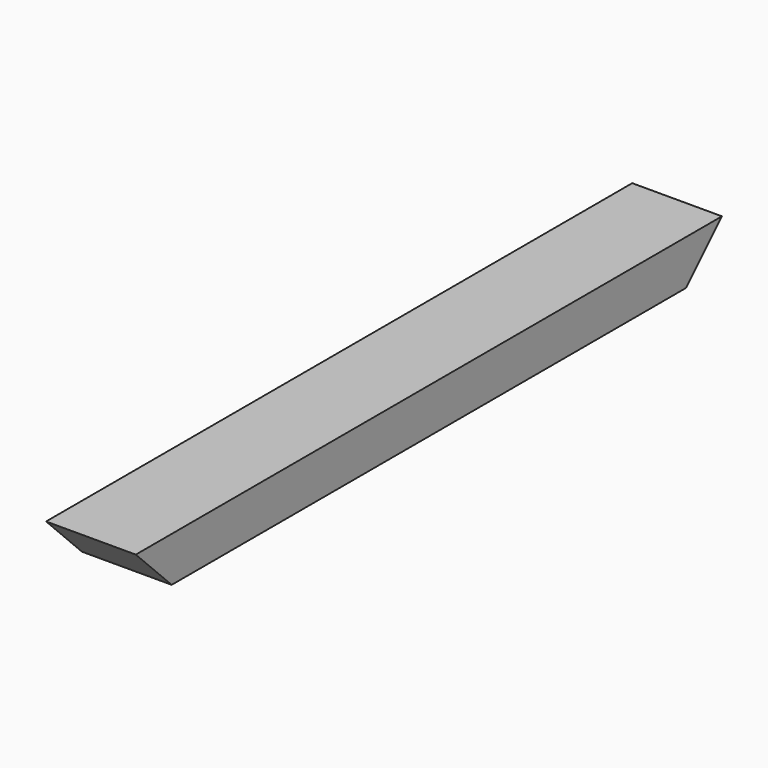
from build123d import *

# Parameters (mm, degrees)
F0_W     = 38.1
F0_H     = 19.05
F1_DEPTH = 311.15
F3_DEPTH = 38.1


with BuildPart() as f1:
    # F0 (on Front) → F1 (new body)
    with BuildSketch(Plane.XZ):
        with Locations((6.227258, -1.307048)):
            Rectangle(F0_W, F0_H)
    extrude(amount=F1_DEPTH)

    # F2 (on face) → F3 (cut)
    with BuildSketch(Plane.YZ.offset(25.277258)):
        Polygon((-292.1, -10.832048), (-311.15, 8.217952), (-311.15, -10.832048), align=None)
        Polygon((0, -10.832048), (0, 8.217952), (-19.05, -10.832048), align=None)
    extrude(amount=-F3_DEPTH, mode=Mode.SUBTRACT)


solid = f1.part
